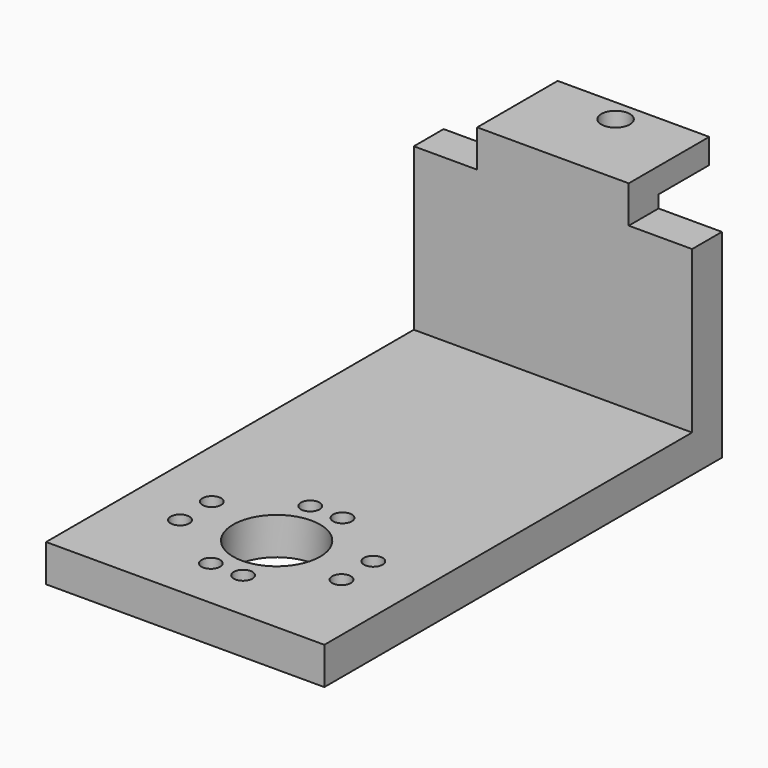
from build123d import *

# Parameters (mm, degrees)
F0_R     = 1.15
F1_DEPTH = 2
F0_W     = 5.1
F0_H     = 3
F2_DEPTH = 17
F3_W     = 22.4
F3_H     = 37
F3_R     = 0.75
F3_H_2   = 3
F4_DEPTH = 3
F5_W     = 5.1
F5_H     = 3
F6_DEPTH = 1


with BuildPart() as f1:
    # F0 (on Top) → F1 (new body)
    with BuildSketch(Plane.XY):
        Polygon((5.1, 0), (11.2, 0), (17.3, 0), (17.3, 5.1), (11.2, 5.1), (5.1, 5.1), align=None)
        with Locations((11.2, 3.3)):
            Circle(F0_R, mode=Mode.SUBTRACT)
        Polygon((17.3, 0), (11.2, 0), (5.1, 0), (5.1, -3), (17.3, -3), align=None)
    extrude(amount=F1_DEPTH)

    # F0 (on Top) → F2 (join)
    with BuildSketch(Plane.XY):
        with Locations((2.55, -1.5)):
            Rectangle(F0_W, F0_H)
        Polygon((17.3, 0), (11.2, 0), (5.1, 0), (5.1, -3), (17.3, -3), align=None)
        with Locations((19.85, -1.5)):
            Rectangle(F0_W, F0_H)
    extrude(amount=-F2_DEPTH)

    # F3 (on face) → F4 (join)
    with BuildSketch(Plane(origin=(0, 0, -17), x_dir=(1, 0, 0), z_dir=(0, 0, -1))):
        with Locations((11.2, 21.5)):
            Rectangle(F3_W, F3_H)
        with Locations((4.6999996006, 29.2)):
            Circle(F3_R, mode=Mode.SUBTRACT)
        with Locations((9.8999996006, 25.8)):
            Circle(F3_R, mode=Mode.SUBTRACT)
        with Locations((4.6999996006, 32.4)):
            Circle(F3_R, mode=Mode.SUBTRACT)
        with BuildLine():
            ThreePointArc((11.1999996006, 34.3), (13.6748733348, 33.2748737342), (14.6999996006, 30.8))
            ThreePointArc((14.6999996006, 30.8), (8.7251258665, 28.3251262658), (11.1999996006, 34.3))
        make_face(mode=Mode.SUBTRACT)
        with Locations((9.8999996006, 35.8)):
            Circle(F3_R, mode=Mode.SUBTRACT)
        with Locations((12.4999996006, 25.8)):
            Circle(F3_R, mode=Mode.SUBTRACT)
        with Locations((17.6999996006, 29.2)):
            Circle(F3_R, mode=Mode.SUBTRACT)
        with Locations((12.4999996006, 35.8)):
            Circle(F3_R, mode=Mode.SUBTRACT)
        with Locations((17.6999996006, 32.4)):
            Circle(F3_R, mode=Mode.SUBTRACT)
        with Locations((11.2, 1.5)):
            Rectangle(F3_W, F3_H_2)
    extrude(amount=-F4_DEPTH)

    # F5 (on face) → F6 (cut)
    with BuildSketch(Plane.XY):
        with Locations((2.55, -1.5)):
            Rectangle(F5_W, F5_H)
        with Locations((19.85, -1.5)):
            Rectangle(F5_W, F5_H)
    extrude(amount=-F6_DEPTH, mode=Mode.SUBTRACT)


solid = f1.part
